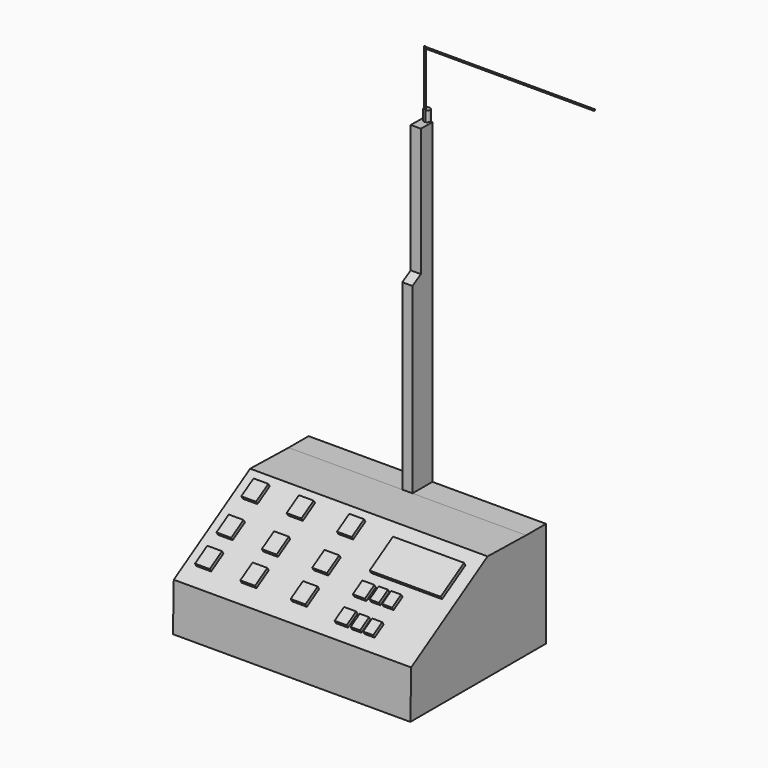
from build123d import *

# Parameters (mm, degrees)
F1_DEPTH  = 35
F2_DEPTH  = 1.5
F3_R      = 0.9063099794
F4_DEPTH  = 3
F9_R      = 0.2485402387
F10_DEPTH = 85
F11_R     = 0.2155847927
F12_DEPTH = 50
F13_W     = 4.3444237293
F13_H     = 5.3226868622
F13_W_2   = 20.9337938577
F13_H_2   = 10.1097906008
F13_W_3   = 3.5610813648
F13_H_3   = 4.1115768254
F13_W_4   = 2.7570873499
F13_H_4   = 3.9258003235
F13_W_5   = 2.9557980597
F13_H_5   = 3.8980096579
F14_DEPTH = 1


with BuildPart() as f1:
    # F0 (on Right) → F1 (new body, symmetric)
    with BuildSketch(Plane.YZ):
        Polygon((0, 0), (0, 31.094250305), (-7.3470045094, 31.094250305), (-21.5524604427, 31.4040603044), (-49.6941367908, 14.0244871014), (-50, 0), align=None)
    extrude(amount=F1_DEPTH, both=True)

    # F0 (on Right) → F2 (join, symmetric)
    with BuildSketch(Plane.YZ):
        Polygon((0, 31.094250305), (0, 124.4379070823), (-4.2471511877, 124.4876444022), (-4.2471511877, 86.7436423779), (-7.3470045094, 84.9254530919), (-7.3470045094, 31.094250305), align=None)
        Polygon((0, 0), (0, 31.094250305), (-7.3470045094, 31.094250305), (-21.5524604427, 31.4040603044), (-49.6941367908, 14.0244871014), (-50, 0), align=None)
    extrude(amount=F2_DEPTH, both=True)

    # F3 (on face) → F4 (join)
    with BuildSketch(Plane(origin=(0, 1.4570612262, 124.4208438045), x_dir=(1, 0, 0), z_dir=(0, 0.0117099457, 0.9999314362))):
        with Locations((0, -1.5943597537)):
            Circle(F3_R)
    extrude(amount=F4_DEPTH)

    # F6 (on offset) → F7 (revolve)
    with BuildSketch(Plane.XZ.offset(0.9)):
        with BuildLine():
            Line((-0.8982078871, 57.9684637487), (0, 57.9684637487))
            Line((0, 57.9684637487), (0, 58.9450188641))
            ThreePointArc((0, 58.9450188641), (-0.7652386155, 58.6691521683), (-1.1784314411, 57.9684637487))
            Line((-1.1784314411, 57.9684637487), (-0.8982078871, 57.9684637487))
        make_face()
    revolve(axis=Axis((0, -0.9, 58.2875237199), (0, 0, 1)))

    # F13 (on face) → F14 (join)
    with BuildSketch(Plane(origin=(0, -19.9901856633, 32.3688808984), x_dir=(1, 0, 0), z_dir=(0, -0.5254480068, 0.850825712))):
        with Locations((-29.7119121344, -6.9637915585)):
            Rectangle(F13_W, F13_H)
        with Locations((-16.3510192841, -6.9637915585)):
            Rectangle(F13_W, F13_H)
        with Locations((-29.7119121344, -17.7128741052)):
            Rectangle(F13_W, F13_H)
        with Locations((-16.3510192841, -17.7128741052)):
            Rectangle(F13_W, F13_H)
        with Locations((-1.4951310397, -6.9637915585)):
            Rectangle(F13_W, F13_H)
        with Locations((-1.4951310397, -17.7128741052)):
            Rectangle(F13_W, F13_H)
        with Locations((-29.7119121344, -27.019901434)):
            Rectangle(F13_W, F13_H)
        with Locations((-16.3510192841, -27.019901434)):
            Rectangle(F13_W, F13_H)
        with Locations((-1.4951310397, -27.019901434)):
            Rectangle(F13_W, F13_H)
        with Locations((20.7709427923, -10.9491236508)):
            Rectangle(F13_W_2, F13_H_2)
        with Locations((11.956452392, -21.0489500314)):
            Rectangle(F13_W_3, F13_H_3)
        with Locations((16.3280665874, -20.910743624)):
            Rectangle(F13_W_4, F13_H_4)
        with Locations((20.1081242412, -20.8968482912)):
            Rectangle(F13_W_5, F13_H_5)
        with Locations((20.1081242412, -29.1055589914)):
            Rectangle(F13_W_5, F13_H_5)
        with Locations((16.3280665874, -29.0916636586)):
            Rectangle(F13_W_4, F13_H_4)
        with Locations((11.956452392, -28.9534572512)):
            Rectangle(F13_W_3, F13_H_3)
    extrude(amount=F14_DEPTH)


with BuildPart() as f10:
    # F9 (on offset) → F10 (new body)
    with BuildSketch(Plane.XY.offset(58.95)):
        with Locations((0, -0.9020901052)):
            Circle(F9_R)
    extrude(amount=F10_DEPTH)

    # F11 (on Right) → F12 (join)
    with BuildSketch(Plane.YZ):
        with Locations((-0.894861063, 143.7157690525)):
            Circle(F11_R)
    extrude(amount=F12_DEPTH)


solid = Compound([f1.part, f10.part])
